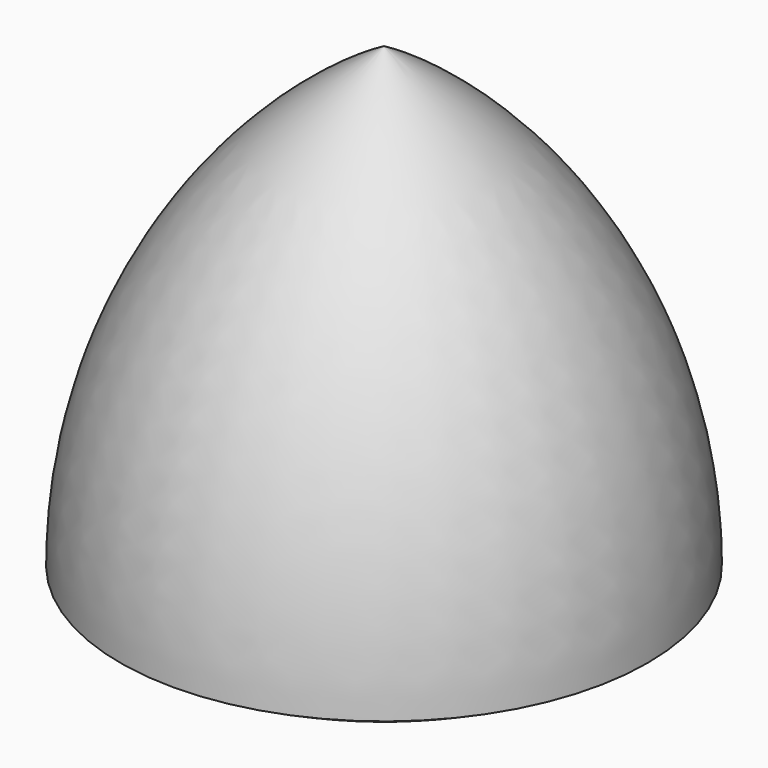
from build123d import *


with BuildPart() as f1:
    # F0 (on Front) → F1 (revolve)
    with BuildSketch(Plane.XZ):
        with BuildLine():
            ThreePointArc((0, -4.2264973081), (2.588190451, -3.885755571), (5, -2.8867513459))
            Line((5, -2.8867513459), (0, -2.8867513459))
            Line((0, -2.8867513459), (0, -4.2264973081))
        make_face()
        Polygon((0, -2.8867513459), (5, -2.8867513459), (0, 5.7735026919), align=None)
        with BuildLine():
            Line((0, 5.7735026919), (5, -2.8867513459))
            ThreePointArc((5, -2.8867513459), (3.6602540378, 2.1132486541), (0, 5.7735026919))
        make_face()
        with BuildLine():
            ThreePointArc((0, -4.2264973081), (2.588190451, -3.885755571), (5, -2.8867513459))
            Line((5, -2.8867513459), (0, -2.8867513459))
            Line((0, -2.8867513459), (0, -4.2264973081))
        make_face()
    revolve(axis=Axis((0, 0, 1.2486632913), (0, 0, -1)))


solid = f1.part
